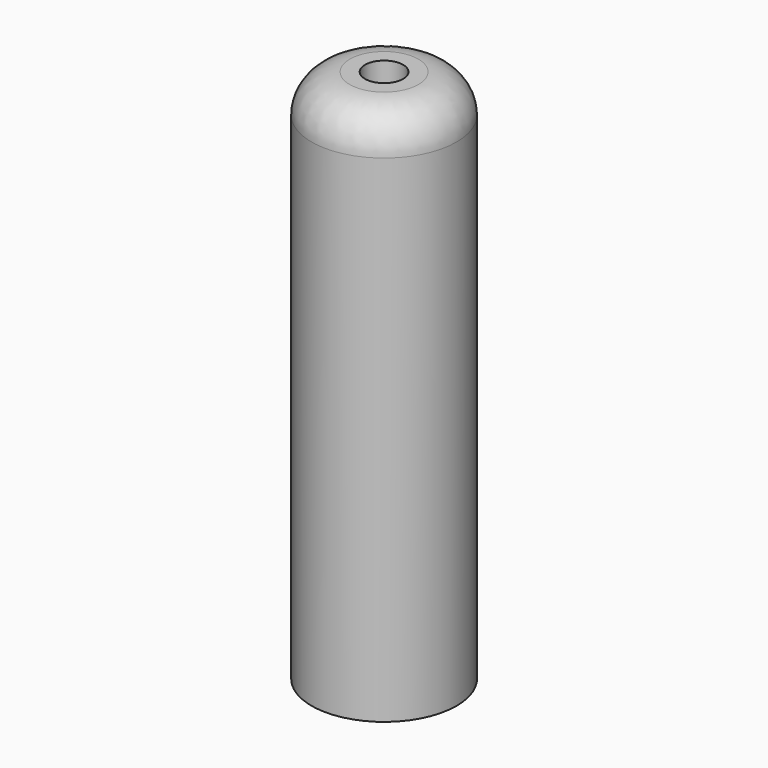
from build123d import *

# Parameters (mm, degrees)
F2_R     = 6.35
F3_DEPTH = 177.8


with BuildPart() as f1:
    # F0 (on Front) → F1 (revolve)
    with BuildSketch(Plane.XZ):
        with BuildLine():
            Line((0, 177.8), (0, 0))
            Line((0, 0), (24.13, 0))
            Line((24.13, 0), (24.13, 165.1))
            ThreePointArc((24.13, 165.1), (20.410256, 174.080256), (11.43, 177.8))
            Line((11.43, 177.8), (0, 177.8))
        make_face()
    revolve(axis=Axis((0, 0, 88.9), (0, 0, 1)))

    # F2 (on face) → F3 (cut)
    with BuildSketch(Plane.XY.offset(177.8)):
        Circle(F2_R)
    extrude(amount=-F3_DEPTH, mode=Mode.SUBTRACT)


solid = f1.part
